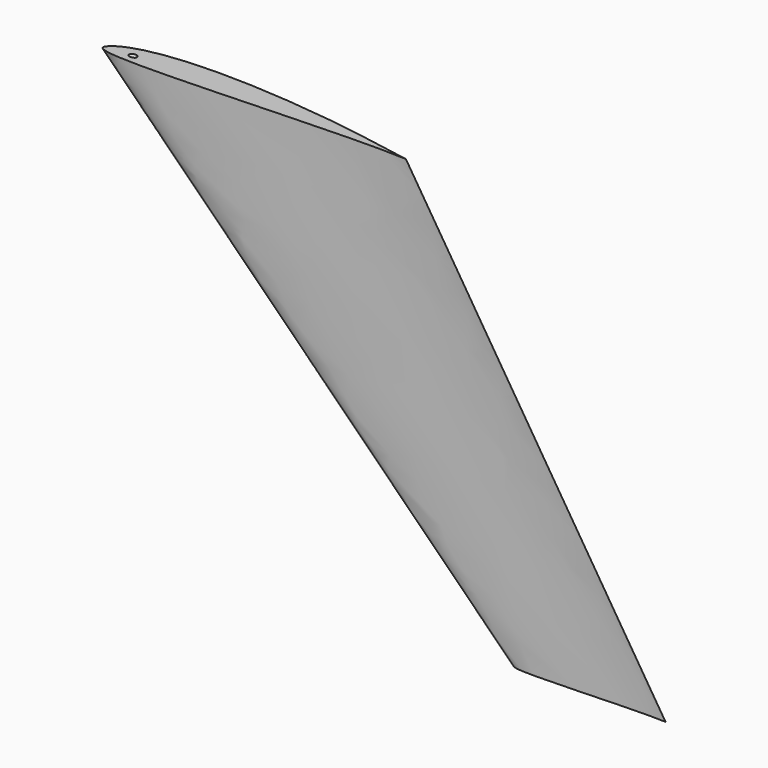
from build123d import *

# Parameters (mm, degrees)
SKETCH002_R  = 4.1
POCKET_DEPTH = 1000


with BuildPart() as part:
    # Sketch001 → AdditiveLoft section 0
    with BuildSketch(Plane.XY):
        with BuildLine():
            add(Edge.make_bspline(
                [(442, 0), (441.516482, 0.05985), (439.608661, 0.304392), (435.397729, 0.910974), (428.574856, 2.050787), (419.357172, 3.70148), (407.988015, 5.842425), (394.698211, 8.361511), (379.693029, 11.119858), (363.162801, 13.997331), (345.26298, 16.850624), (326.154422, 19.592319), (306.024603, 22.224467), (285.087437, 24.693135), (263.574681, 26.954707), (241.720258, 28.956147), (219.751231, 30.630726), (197.897907, 31.93252), (176.376671, 32.821617), (155.396014, 33.244603), (135.15065, 33.188213), (115.824376, 32.629564), (97.587476, 31.56887), (80.596225, 30.005784), (64.993081, 27.968424), (50.899514, 25.480303), (38.413049, 22.576942), (27.612464, 19.308312), (18.537399, 15.757674), (11.25959, 12.025676), (5.681209, 8.285847), (2.085717, 4.609671), (-0.247471, 1.339778), (0.311945, -2.351632), (4.312806, -4.086549), (9.630029, -5.736613), (17.536136, -6.998137), (27.548729, -7.995899), (39.778624, -8.638792), (54.057759, -8.977652), (70.277468, -9.020418), (88.270446, -8.806011), (107.851364, -8.369968), (128.803322, -7.757266), (150.891088, -7.009708), (173.8572, -6.171241), (197.434439, -5.258382), (221.347851, -4.314599), (245.320032, -3.359505), (269.074332, -2.428661), (292.331841, -1.542801), (314.820615, -0.740997), (336.263952, -0.054134), (356.390635, 0.471415), (374.915352, 0.819632), (391.616087, 0.995955), (406.124271, 0.998543), (418.5896, 0.838399), (427.79948, 0.669458), (436.147044, 0.281922), (438.208582, 0.287723), (442.482043, -0.059667), (442, 0)],
                knots=[0, 0, 0, 0, 1.461597, 5.77029, 12.762078, 22.212664, 33.86298, 47.468775, 62.792045, 79.632371, 97.804006, 117.167199, 137.543181, 158.706049, 180.412086, 202.435333, 224.541436, 246.507528, 268.108303, 289.156025, 309.457208, 328.838587, 347.151752, 364.251375, 380.016791, 394.345039, 407.169539, 418.451022, 428.175556, 436.348274, 442.987025, 448.138084, 451.892769, 454.490135, 458.080843, 463.78995, 471.700688, 481.805752, 494.068802, 508.3943, 524.664455, 542.72125, 562.377151, 583.420645, 605.603797, 628.678224, 652.364831, 676.388479, 700.474308, 724.338439, 747.706026, 770.297556, 791.846969, 812.070775, 830.691007, 847.452489, 862.104791, 874.428615, 884.234973, 891.369529, 895.711178, 897.168317, 897.168317, 897.168317, 897.168317], degree=3))
        make_face()
    # Sketch → AdditiveLoft section 1
    with BuildSketch(Plane(origin=(600, 0, -600), x_dir=(1, 0, 0), z_dir=(0, 0, 1))):
        with BuildLine():
            add(Edge.make_bspline(
                [(221, 0), (220.758241, 0.029925), (219.804331, 0.152196), (217.698864, 0.455487), (214.287428, 1.025393), (209.678586, 1.85074), (203.994008, 2.921212), (197.349106, 4.180756), (189.846514, 5.559929), (181.5814, 6.998665), (172.63149, 8.425312), (163.077211, 9.796159), (153.012301, 11.112233), (142.543719, 12.346568), (131.78734, 13.477353), (120.860129, 14.478073), (109.875616, 15.315363), (98.948954, 15.96626), (88.188336, 16.410808), (77.698007, 16.622301), (67.575325, 16.594107), (57.912188, 16.314782), (48.793738, 15.784435), (40.298113, 15.002892), (32.49654, 13.984212), (25.449757, 12.740151), (19.206525, 11.288471), (13.806232, 9.654156), (9.2687, 7.878837), (5.629795, 6.012838), (2.840604, 4.142924), (1.042858, 2.304836), (-0.123736, 0.669889), (0.155972, -1.175816), (2.156403, -2.043274), (4.815015, -2.868307), (8.768068, -3.499068), (13.774365, -3.997949), (19.889312, -4.319396), (27.028879, -4.488826), (35.138734, -4.510209), (44.135223, -4.403006), (53.925682, -4.184984), (64.401661, -3.878633), (75.445544, -3.504854), (86.9286, -3.08562), (98.71722, -2.629191), (110.673925, -2.157299), (122.660016, -1.679753), (134.537166, -1.21433), (146.165921, -0.771401), (157.410308, -0.370498), (168.131976, -0.027067), (178.195317, 0.235708), (187.457676, 0.409816), (195.808043, 0.497978), (203.062136, 0.499271), (209.2948, 0.4192), (213.89974, 0.334729), (218.073522, 0.140961), (219.104291, 0.143861), (221.241022, -0.029834), (221, 0)],
                knots=[0, 0, 0, 0, 0.730799, 2.885145, 6.381039, 11.106332, 16.93149, 23.734387, 31.396023, 39.816186, 48.902003, 58.583599, 68.77159, 79.353025, 90.206043, 101.217667, 112.270718, 123.253764, 134.054152, 144.578012, 154.728604, 164.419294, 173.575876, 182.125688, 190.008395, 197.172519, 203.58477, 209.225511, 214.087778, 218.174137, 221.493513, 224.069042, 225.946384, 227.245067, 229.040421, 231.894975, 235.850344, 240.902876, 247.034401, 254.19715, 262.332227, 271.360625, 281.188575, 291.710323, 302.801898, 314.339112, 326.182416, 338.19424, 350.237154, 362.16922, 373.853013, 385.148778, 395.923484, 406.035388, 415.345504, 423.726244, 431.052396, 437.214307, 442.117487, 445.684765, 447.855589, 448.584159, 448.584159, 448.584159, 448.584159], degree=3))
        make_face()
    loft()

    # Sketch002 (on DatumPlane) → Pocket (cut)
    with BuildSketch(Plane(origin=(0, 0, 0), x_dir=(0.707107, 0, 0.707107), z_dir=(-0.707107, 0, 0.707107))):
        with Locations((28.334262, 4.752984)):
            Circle(SKETCH002_R)
    extrude(amount=-POCKET_DEPTH, mode=Mode.SUBTRACT)


solid = part.part
